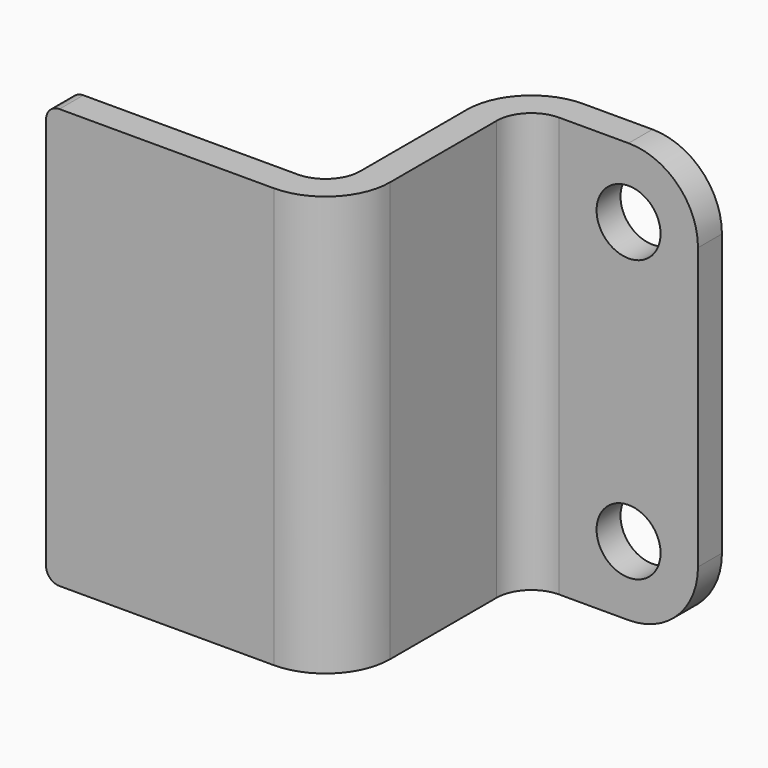
from build123d import *

# Parameters (mm, degrees)
F1_DEPTH = 24
F2_R     = 1.98374
F3_R     = 3.69316
F4_R     = 3.96875
F5_R     = 0.762
F6_R     = 1.8288
F7_DEPTH = 1.70942


with BuildPart() as f1:
    # F0 (on Top) → F1 (new body)
    with BuildSketch(Plane.XY):
        Polygon((0, -13.29058), (0, 0), (9.92124, 0), (9.92124, 1.70942), (-1.70942, 1.70942), (-1.70942, -11.58116), (-16.70942, -11.58116), (-16.70942, -13.29058), align=None)
    extrude(amount=F1_DEPTH)

    # F2
    f2_edges = [f1.edges().sort_by_distance(p)[0] for p in [
        (0, 0, 12),
        (-1.70942, -11.58116, 12),
    ]]
    fillet(f2_edges, radius=F2_R)

    # F3
    f3_edges = [f1.edges().sort_by_distance(p)[0] for p in [
        (0, -13.29058, 12),
        (-1.70942, 1.70942, 12),
    ]]
    fillet(f3_edges, radius=F3_R)

    # F4
    f4_edges = [f1.edges().sort_by_distance(p)[0] for p in [
        (9.92124, 0.85471, 24),
        (9.92124, 0.85471, 0),
    ]]
    fillet(f4_edges, radius=F4_R)

    # F5
    f5_edges = [f1.edges().sort_by_distance(p)[0] for p in [
        (-16.70942, -12.43587, 0),
        (-16.70942, -12.43587, 24),
    ]]
    fillet(f5_edges, radius=F5_R)

    # F6 (on face) → F7 (cut, through all)
    with BuildSketch(Plane.XZ):
        with Locations((5.95249, 20.03125)):
            Circle(F6_R)
        with Locations((5.95249, 3.96875)):
            Circle(F6_R)
    extrude(amount=-F7_DEPTH, mode=Mode.SUBTRACT)


solid = f1.part
